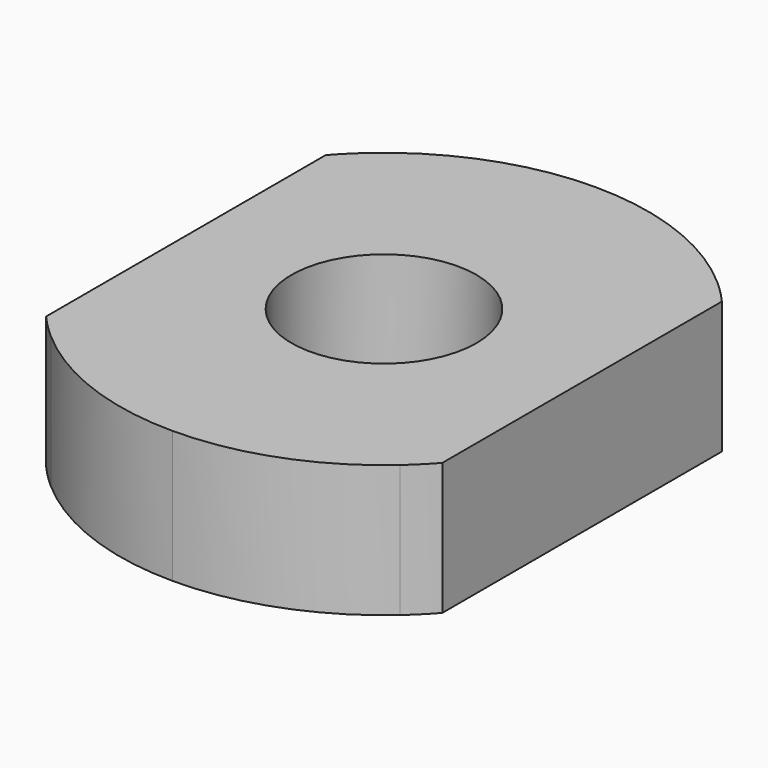
from build123d import *

# Parameters (mm, degrees)
F0_R     = 17.5
F1_DEPTH = 25


with BuildPart() as f1:
    # F0 (on Top) → F1 (new body)
    with BuildSketch(Plane.XY):
        with BuildLine():
            ThreePointArc((-33.071891, -37.5), (-17.67767, -46.770717), (0, -50))
            ThreePointArc((0, -50), (17.677669, -46.770717), (33.071891, -37.5))
            Line((33.071891, -37.5), (13.5, -37.5))
            Line((13.5, -37.5), (13.5, -26))
            Line((13.5, -26), (37.5, -26))
            Line((37.5, -26), (37.5, 0))
            Line((37.5, 0), (37.5, 25.5))
            Line((37.5, 25.5), (13.5, 25.5))
            Line((13.5, 25.5), (13.5, 37.5))
            Line((13.5, 37.5), (33.071891, 37.5))
            ThreePointArc((33.071891, 37.5), (17.67767, 46.770717), (0, 50))
            ThreePointArc((0, 50), (-17.67767, 46.770717), (-33.071891, 37.5))
            Line((-33.071891, 37.5), (-13.5, 37.5))
            Line((-13.5, 37.5), (-13.5, 25.5))
            Line((-13.5, 25.5), (-37.5, 25.5))
            Line((-37.5, 25.5), (-37.5, 0))
            Line((-37.5, 0), (-37.5, -25.5))
            Line((-37.5, -25.5), (-13.5, -25.5))
            Line((-13.5, -25.5), (-13.5, -37.5))
            Line((-13.5, -37.5), (-33.071891, -37.5))
        make_face()
        Circle(F0_R, mode=Mode.SUBTRACT)
        with BuildLine():
            ThreePointArc((-33.071891, 37.5), (-35.355339, 35.355339), (-37.5, 33.071891))
            Line((-37.5, 33.071891), (-37.5, 25.5))
            Line((-37.5, 25.5), (-13.5, 25.5))
            Line((-13.5, 25.5), (-13.5, 37.5))
            Line((-13.5, 37.5), (-33.071891, 37.5))
        make_face()
        with BuildLine():
            Line((37.5, 25.5), (37.5, 33.071891))
            ThreePointArc((37.5, 33.071891), (35.355339, 35.355339), (33.071891, 37.5))
            Line((33.071891, 37.5), (13.5, 37.5))
            Line((13.5, 37.5), (13.5, 25.5))
            Line((13.5, 25.5), (37.5, 25.5))
        make_face()
        with BuildLine():
            Line((13.5, -37.5), (33.071891, -37.5))
            ThreePointArc((33.071891, -37.5), (35.355339, -35.355339), (37.5, -33.071891))
            Line((37.5, -33.071891), (37.5, -26))
            Line((37.5, -26), (13.5, -26))
            Line((13.5, -26), (13.5, -37.5))
        make_face()
        with BuildLine():
            ThreePointArc((-37.5, -33.071891), (-35.355339, -35.355339), (-33.071891, -37.5))
            Line((-33.071891, -37.5), (-13.5, -37.5))
            Line((-13.5, -37.5), (-13.5, -25.5))
            Line((-13.5, -25.5), (-37.5, -25.5))
            Line((-37.5, -25.5), (-37.5, -33.071891))
        make_face()
    extrude(amount=F1_DEPTH)


solid = f1.part
